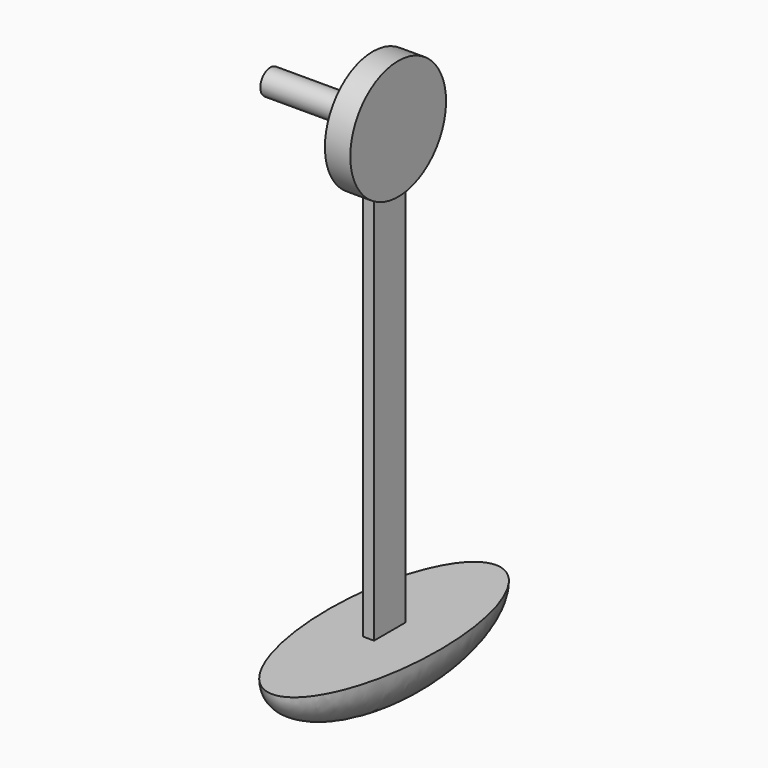
from build123d import *

# Parameters (mm, degrees)
F0_W     = 13.1121994928
F0_H     = 1.6037151217
F0_W_2   = 1.4255279675
F0_H_2   = 57.0257019255
F2_DEPTH = 2.5
F5_ANGLE = 180


with BuildPart() as f1:
    # F0 (on Front) → F1 (revolve)
    with BuildSketch(Plane.XZ):
        Polygon((-13.1121994928, 65.8466780561), (-13.1121994928, 67.4503931779), (-13.1121994928, 73.5088886696), (-16.3641842082, 73.5088886696), (-16.3641842082, 65.8466780562), (-15.271612443, 65.8466780562), (-13.8460844755, 65.8466780562), align=None)
        with Locations((-6.5560997464, 66.648535617)):
            Rectangle(F0_W, F0_H)
    revolve(axis=Axis((-8.1820921041, 0, 65.8466780562), (1, 0, 0)))

    # F0 (on Front) → F2 (join, symmetric)
    with BuildSketch(Plane.XZ):
        with Locations((-14.5588484593, 37.3338270934)):
            Rectangle(F0_W_2, F0_H_2)
    extrude(amount=F2_DEPTH, both=True)

    # F4 (on offset) → F5 (revolve)
    with BuildSketch(Plane(origin=(0, 0, 8.8209761307), x_dir=(1, 0, 0), z_dir=(0, 0, -1))):
        with BuildLine():
            Line((-14.5569266751, 2.5077068713), (-14.5569266751, 17.9110467434))
            add(Edge.make_bspline(
                [(-14.5569266751, 17.9110467434), (-21.6491705103, 17.9110467434), (-21.6491705103, 0), (-21.6491705103, -17.9110467434), (-14.5569266751, -17.9110467434)],
                knots=[3.1415926536, 3.1415926536, 3.1415926536, 4.7123889804, 4.7123889804, 6.2831853072, 6.2831853072, 6.2831853072], degree=2, weights=[1, 0.7071067812, 1, 0.7071067812, 1]))
            Line((-14.5569266751, -17.9110467434), (-14.5569266751, 2.5077068713))
        make_face()
    revolve(axis=Axis((-14.5569266751, 0, 8.8209761307), (0, -1, 0)), revolution_arc=F5_ANGLE)


with BuildPart() as f6_1:
    # F6: instance of F1
    add(f1.part.mirror(Plane.YZ))


solid = f6_1.part
